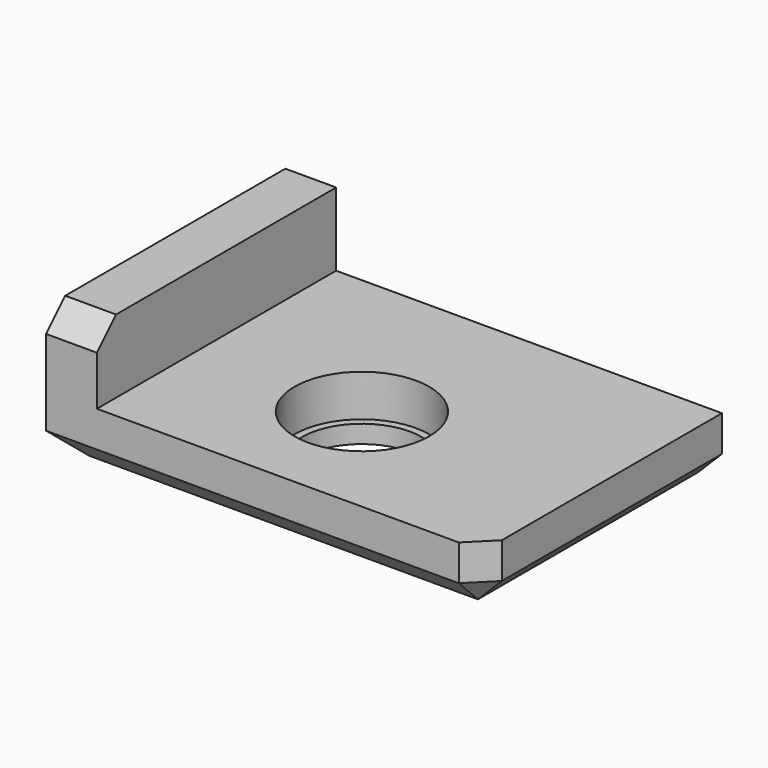
from build123d import *

# Parameters (mm, degrees)
PAD007_DEPTH    = 50
SKETCH009_R     = 10
POCKET001_DEPTH = 22.251
SKETCH010_R     = 11.25
POCKET002_DEPTH = 19.251
CHAMFER001_SIZE = 4


with BuildPart() as part:
    # Sketch008 (on Face1 of Binder002) → Pad007 (new body)
    with BuildSketch(Plane.XZ.offset(-29)):
        Polygon((37, 0), (37, 10), (-27.5, 10), (-27.5, 22.25), (-36, 22.25), (-36, 0), align=None)
    extrude(amount=PAD007_DEPTH)

    # Sketch009 → Pocket001 (cut, through all)
    with BuildSketch(Plane.XY):
        Circle(SKETCH009_R)
    extrude(amount=POCKET001_DEPTH, mode=Mode.SUBTRACT)

    # Sketch010 → Pocket002 (cut, through all)
    with BuildSketch(Plane.XY.offset(3)):
        Circle(SKETCH010_R)
    extrude(amount=POCKET002_DEPTH, mode=Mode.SUBTRACT)

    # Chamfer001
    chamfer001_edges = [part.edges().sort_by_distance(p)[0] for p in [
        (-31.75, -21, 22.25),
        (37, -21, 5),
        (-36, 4, 0),
        (0.5, -21, 0),
        (37, 4, 0),
    ]]
    chamfer(chamfer001_edges, length=CHAMFER001_SIZE)


solid = part.part
